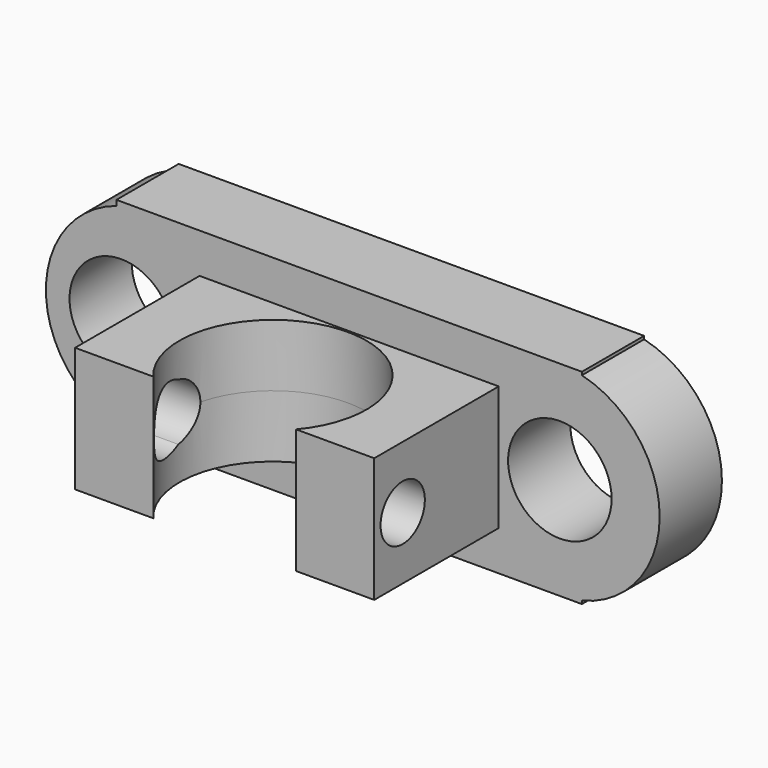
from build123d import *

# Parameters (mm, degrees)
F2_DEPTH  = 25.4
F3_R      = 14.2869829167
F3_R_2    = 15.0362053168
F4_DEPTH  = 25.4
F5_R      = 15.0979548497
F6_DEPTH  = 25.4
F7_R      = 16.8973706764
F8_DEPTH  = 12.7
F9_DEPTH  = 25.4
F10_R     = 15.3471381564
F11_DEPTH = 76.2
F12_DEPTH = 25.4
F13_R     = 16.8651828774
F14_DEPTH = 25.4
F15_W     = 97.6533442736
F15_H     = 40.7104864717
F16_DEPTH = 76.2
F17_R     = 30.5155055684
F18_DEPTH = 25.4
F19_DEPTH = 25.4
F20_R     = 10.6213754379
F21_DEPTH = 50.8
F22_R     = 9.4222372935
F23_DEPTH = 50.8
F24_R     = 9.0371424161
F25_DEPTH = 25.4


with BuildPart() as f2:
    # F1 (on face) → F2 (new body)
    with BuildSketch(Plane.XZ):
        with BuildLine():
            Line((75.9671404958, 32.3720407565), (75.9671404958, 33.3821922541))
            Line((75.9671404958, 33.3821922541), (-75.9671404958, 33.3821922541))
            Line((-75.9671404958, 33.3821922541), (-75.9671404958, 31.6472478295))
            ThreePointArc((-75.9671404958, 31.6472478295), (-98.9936606225, 0), (-75.9671404958, -31.6472478295))
            Line((-75.9671404958, -31.6472478295), (-75.9671404958, -33.3821922541))
            Line((-75.9671404958, -33.3821922541), (75.9671404958, -33.3821922541))
            Line((75.9671404958, -33.3821922541), (75.9671404958, -32.3720407565))
            ThreePointArc((75.9671404958, -32.3720407565), (101.3590356441, 0), (75.9671404958, 32.3720407565))
        make_face()
    extrude(amount=F2_DEPTH)

    # F3 (on Front) → F4 (cut)
    with BuildSketch(Plane.XZ):
        with Locations((-75.3733813763, 0)):
            Circle(F3_R)
        with Locations((76.2721076608, 0)):
            Circle(F3_R_2)
    extrude(amount=-F4_DEPTH, mode=Mode.SUBTRACT)

    # F5 (on Front) → F6 (cut)
    with BuildSketch(Plane.XZ):
        with Locations((74.6077895164, 0)):
            Circle(F5_R)
    extrude(amount=-F6_DEPTH, mode=Mode.SUBTRACT)

    # F7 (on Front) → F8 (cut, symmetric)
    with BuildSketch(Plane.XZ):
        with Locations((68.7745809555, 0)):
            Circle(F7_R)
    extrude(amount=F8_DEPTH, both=True, mode=Mode.SUBTRACT)

    # F0 (on Front) → F9 (cut)
    with BuildSketch(Plane.XZ):
        with BuildLine():
            Line((75.9671404958, 33.3821922541), (-75.9671404958, 33.3821922541))
            Line((-75.9671404958, 33.3821922541), (-75.9671404958, 31.6472478295))
            ThreePointArc((-75.9671404958, 31.6472478295), (-98.9936606225, 0), (-75.9671404958, -31.6472478295))
            Line((-75.9671404958, -31.6472478295), (-75.9671404958, -33.3821922541))
            Line((-75.9671404958, -33.3821922541), (75.9671404958, -33.3821922541))
            Line((75.9671404958, -33.3821922541), (75.9671404958, -32.3720407565))
            ThreePointArc((75.9671404958, -32.3720407565), (101.3590356441, 0), (75.9671404958, 32.3720407565))
            Line((75.9671404958, 32.3720407565), (75.9671404958, 33.3821922541))
        make_face()
    extrude(amount=-F9_DEPTH, mode=Mode.SUBTRACT)

    # F10 (on Front) → F11 (cut)
    with BuildSketch(Plane.XZ):
        with Locations((-71.0009858012, 0)):
            Circle(F10_R)
    extrude(amount=-F11_DEPTH, mode=Mode.SUBTRACT)

    # F12 (cut): a face of the model
    f12_faces = [f2.faces().sort_by_distance(p)[0] for p in [
        (68.7745809555, -12.7, 0),
    ]]
    extrude(f12_faces, amount=-F12_DEPTH, mode=Mode.SUBTRACT)

    # F13 (on face) → F14 (cut)
    with BuildSketch(Plane.XZ.offset(25.4)):
        with Locations((-74.4160786271, 0)):
            Circle(F13_R)
    extrude(amount=-F14_DEPTH, mode=Mode.SUBTRACT)

    # F15 (on Front) → F16 (join)
    with BuildSketch(Plane.XZ):
        Rectangle(F15_W, F15_H)
    extrude(amount=F16_DEPTH)

    # F17 (on Top) → F18 (cut)
    with BuildSketch(Plane.XY):
        with Locations((0, -56.5003752708)):
            Circle(F17_R)
    extrude(amount=-F18_DEPTH, mode=Mode.SUBTRACT)

    # F19 (cut): a face of the model
    f19_faces = [f2.faces().sort_by_distance(p)[0] for p in [
        (0, -53.2237488091, 0),
    ]]
    extrude(f19_faces, amount=-F19_DEPTH, mode=Mode.SUBTRACT)

    # F20 (on Right) → F21 (cut)
    with BuildSketch(Plane.YZ):
        with Locations((-62.1050074697, 0)):
            Circle(F20_R)
    extrude(amount=-F21_DEPTH, mode=Mode.SUBTRACT)

    # F22 (on Right) → F23 (cut)
    with BuildSketch(Plane.YZ):
        with Locations((-58.5186779499, 0)):
            Circle(F22_R)
    extrude(amount=-F23_DEPTH, mode=Mode.SUBTRACT)

    # F24 (on face) → F25 (cut)
    with BuildSketch(Plane.YZ.offset(48.8266721368)):
        with Locations((-64.5882040262, 0)):
            Circle(F24_R)
    extrude(amount=-F25_DEPTH, mode=Mode.SUBTRACT)


solid = f2.part
